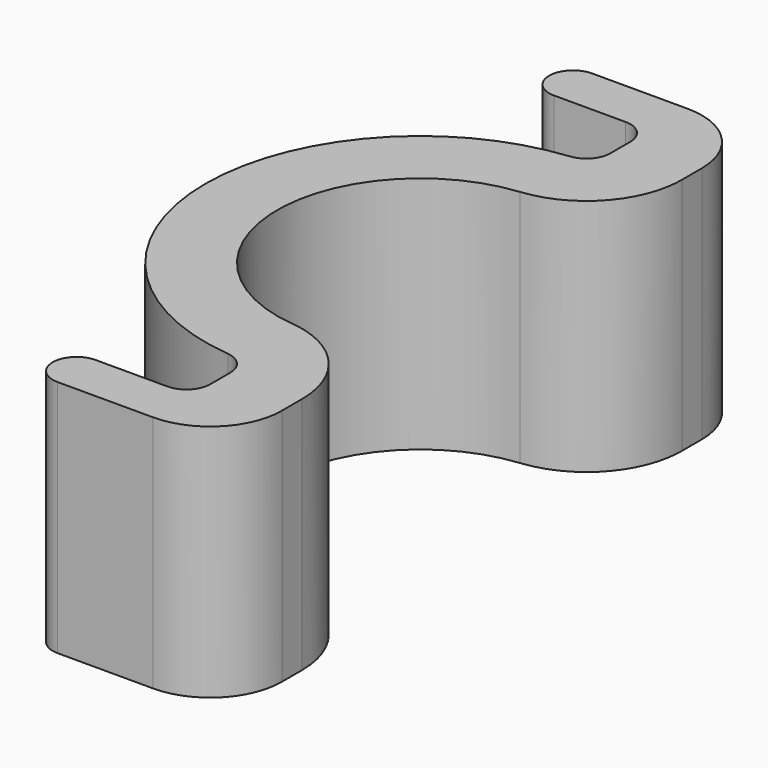
from build123d import *

# Parameters (mm, degrees)
F0_W     = 5
F0_H     = 2.0000003874
F1_DEPTH = 10
F2_R     = 4
F3_R     = 3
F4_R     = 1
F5_R     = 1
F6_R     = 1


with BuildPart() as f1:
    # F0 (on Top) → F1 (new body)
    with BuildSketch(Plane.XY):
        with BuildLine():
            ThreePointArc((0, -6), (-6, 0), (0, 6))
            Line((0, 6), (0, 8.9999996126))
            ThreePointArc((0, 8.9999996126), (-8.9999996126, 0), (0, -8.9999996126))
            Line((0, -8.9999996126), (0, -6))
        make_face()
        Polygon((0, 8.9999996126), (0, 6), (3, 6), (3, 14), (0, 14), (0, 11.9999996126), align=None)
        with Locations((-2.5, 12.9999998063)):
            Rectangle(F0_W, F0_H)
        Polygon((3, -6), (0, -6), (0, -8.9999996126), (0, -11.9999996126), (0, -14), (3, -14), align=None)
        with Locations((-2.5, -12.9999998063)):
            Rectangle(F0_W, F0_H)
    extrude(amount=F1_DEPTH)

    # F2
    f2_edges = [f1.edges().sort_by_distance(p)[0] for p in [
        (3, -6, 5),
        (3, 6, 5),
    ]]
    fillet(f2_edges, radius=F2_R)

    # F3
    f3_edges = [f1.edges().sort_by_distance(p)[0] for p in [
        (3, -14, 5),
        (3, 14, 5),
    ]]
    fillet(f3_edges, radius=F3_R)

    # F4
    f4_edges = [f1.edges().sort_by_distance(p)[0] for p in [
        (0, 12, 5),
        (0, -12, 5),
    ]]
    fillet(f4_edges, radius=F4_R)

    # F5
    f5_edges = [f1.edges().sort_by_distance(p)[0] for p in [
        (0, 9, 5),
        (0, -9, 5),
    ]]
    fillet(f5_edges, radius=F5_R)

    # F6
    f6_edges = [f1.edges().sort_by_distance(p)[0] for p in [
        (-5, 12, 5),
        (-5, 14, 5),
        (-5, -12, 5),
        (-5, -14, 5),
    ]]
    fillet(f6_edges, radius=F6_R)


solid = f1.part
